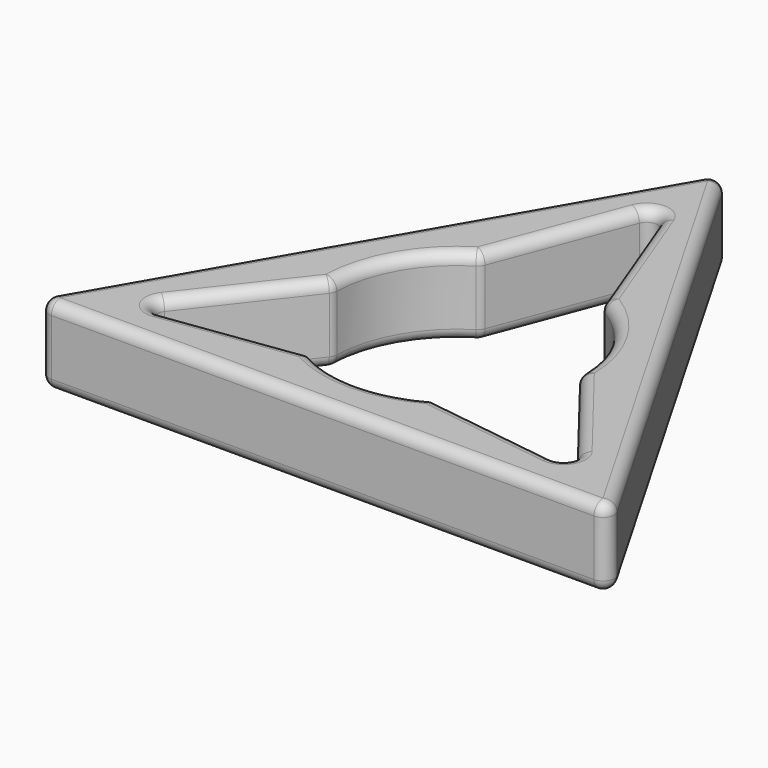
from build123d import *

# Parameters (mm, degrees)
F1_DEPTH = 3.5
F2_R     = 1


with BuildPart() as f1:
    # F0 (on Top) → F1 (new body, symmetric)
    with BuildSketch(Plane.XY):
        Polygon((25.980762, -15), (0, 30), (-25.980762, -15), align=None)
        with BuildLine():
            Line((-5.5, 9.526279), (0, 24))
            Line((0, 24), (5.5, 9.526279))
            ThreePointArc((5.5, 9.526279), (9.526279, 5.5), (11, 0))
            Line((11, 0), (19.980762, -11.535898))
            Line((19.980762, -11.535898), (5.5, -9.526279))
            ThreePointArc((5.5, -9.526279), (0, -11), (-5.5, -9.526279))
            Line((-5.5, -9.526279), (-19.980762, -11.535898))
            Line((-19.980762, -11.535898), (-11, 0))
            ThreePointArc((-11, 0), (-9.526279, 5.5), (-5.5, 9.526279))
        make_face(mode=Mode.SUBTRACT)
    extrude(amount=F1_DEPTH, both=True)

    # F2
    f2_edges = [f1.edges().sort_by_distance(p)[0] for p in [
        (0, -15, -3.5),
        (25.980762, -15, 0),
        (0, -15, 3.5),
        (-25.980762, -15, 0),
        (12.990381, 7.5, 3.5),
        (-12.990381, 7.5, 3.5),
        (-2.75, 16.76314, 3.5),
        (2.75, 16.76314, 3.5),
        (9.526279, 5.5, 3.5),
        (15.490381, -5.767949, 3.5),
        (12.740381, -10.531089, 3.5),
        (0, -11, 3.5),
        (-12.740381, -10.531089, 3.5),
        (-15.490381, -5.767949, 3.5),
        (-9.526279, 5.5, 3.5),
        (-19.980762, -11.535898, 0),
        (-15.490381, -5.767949, -3.5),
        (-11, 0, 0),
        (-2.75, 16.76314, -3.5),
        (0, 24, 0),
        (-5.5, 9.526279, 0),
        (2.75, 16.76314, -3.5),
        (5.5, 9.526279, 0),
        (9.526279, 5.5, -3.5),
        (11, 0, 0),
        (15.490381, -5.767949, -3.5),
        (19.980762, -11.535898, 0),
        (12.990381, 7.5, -3.5),
        (-12.990381, 7.5, -3.5),
        (12.740381, -10.531089, -3.5),
        (0, -11, -3.5),
        (-12.740381, -10.531089, -3.5),
        (-9.526279, 5.5, -3.5),
        (0, 30, 0),
    ]]
    fillet(f2_edges, radius=F2_R)


solid = f1.part
